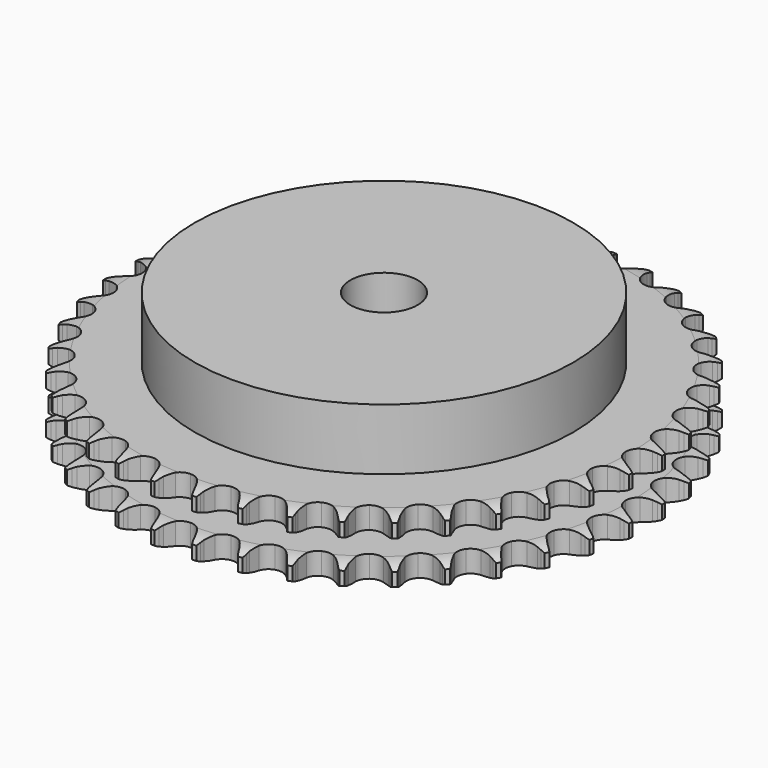
from build123d import *

# Parameters (mm, degrees)
PAD_DEPTH         = 15.4
SKETCH001_R       = 45
PAD001_DEPTH      = 30
SKETCH002_R       = 8
POCKET_DEPTH      = 0.001
POCKET_DEPTH_BACK = 30.001


with BuildPart() as part:
    # Sprocket → Pad (new body)
    with BuildSketch(Plane.XY):
        with BuildLine():
            ThreePointArc((-4.986853, 63.363969), (-4.438526, 62.600159), (-4.038812, 61.749103))
            Line((-4.038812, 61.749103), (-3.729238, 60.893914))
            ThreePointArc((-3.729238, 60.893914), (-3.239135, 59.795706), (-2.595634, 58.779751))
            ThreePointArc((-2.595634, 58.779751), (-1.453357, 57.817013), (0, 57.471444))
            ThreePointArc((0, 57.471444), (1.453357, 57.817013), (2.595634, 58.779751))
            ThreePointArc((2.595634, 58.779751), (3.239135, 59.795706), (3.729238, 60.893914))
            Line((3.729238, 60.893914), (4.038812, 61.749103))
            ThreePointArc((4.038812, 61.749103), (4.438526, 62.600159), (4.986853, 63.363969))
            ThreePointArc((4.986853, 63.363969), (5.408942, 62.523786), (5.670601, 61.620678))
            Line((5.670601, 61.620678), (5.842582, 60.72759))
            ThreePointArc((5.842582, 60.72759), (6.154853, 59.566235), (6.631502, 58.462122))
            ThreePointArc((6.631502, 58.462122), (7.60911, 57.332544), (8.990515, 56.763875))
            ThreePointArc((8.990515, 56.763875), (10.480037, 56.877834), (11.758856, 57.650028))
            Line((11.758856, 57.650028), (13.209231, 59.560827))
            ThreePointArc((13.209231, 59.560827), (13.418101, 59.964962), (13.648775, 60.35706))
            ThreePointArc((13.648775, 60.35706), (14.176703, 61.135109), (14.837765, 61.803738))
            ThreePointArc((14.837765, 61.803738), (15.123224, 60.907869), (15.240384, 59.974948))
            Line((15.240384, 59.974948), (15.270538, 59.065951))
            ThreePointArc((15.270538, 59.065951), (15.397289, 57.870044), (15.695348, 56.70496))
            ThreePointArc((15.695348, 56.70496), (16.484215, 55.436358), (17.759653, 54.658591))
            ThreePointArc((17.759653, 54.658591), (19.248664, 54.538135), (20.632536, 55.100771))
            Line((20.632536, 55.100771), (22.36397, 56.761156))
            ThreePointArc((22.36397, 56.761156), (22.633488, 57.12764), (22.922661, 57.478825))
            ThreePointArc((22.922661, 57.478825), (23.565802, 58.164709), (24.323322, 58.721694))
            ThreePointArc((24.323322, 58.721694), (24.465122, 57.792199), (24.434898, 56.852436))
            Line((24.434898, 56.852436), (24.322483, 55.949913))
            ThreePointArc((24.322483, 55.949913), (24.260592, 54.748901), (24.372722, 53.551535))
            ThreePointArc((24.372722, 53.551535), (24.953424, 52.175145), (26.09149, 51.207432))
            ThreePointArc((26.09149, 51.207432), (27.543325, 50.855525), (28.998175, 51.194749))
            Line((28.998175, 51.194749), (30.968033, 52.563836))
            ThreePointArc((30.968033, 52.563836), (31.291565, 52.883647), (31.632114, 53.185271))
            ThreePointArc((31.632114, 53.185271), (32.374633, 53.762101), (33.209958, 54.193726))
            ThreePointArc((33.209958, 54.193726), (33.204607, 53.253493), (33.027745, 52.330028))
            Line((33.027745, 52.330028), (32.775528, 51.456202))
            ThreePointArc((32.775528, 51.456202), (32.526519, 50.279659), (32.449959, 49.079493))
            ThreePointArc((32.449959, 49.079493), (32.808197, 47.629207), (33.780867, 46.495375))
            ThreePointArc((33.780867, 46.495375), (35.159777, 45.920684), (36.649783, 46.028142))
            Line((36.649783, 46.028142), (38.809561, 47.07222))
            ThreePointArc((38.809561, 47.07222), (39.179138, 47.337482), (39.56268, 47.58212))
            ThreePointArc((39.56268, 47.58212), (40.386293, 48.035692), (41.278855, 48.33133))
            ThreePointArc((41.278855, 48.33133), (41.126485, 47.403509), (40.807338, 46.519081))
            Line((40.807338, 46.519081), (40.42153, 45.695469))
            ThreePointArc((40.42153, 45.695469), (39.991535, 44.572364), (39.728171, 43.398951))
            ThreePointArc((39.728171, 43.398951), (39.855123, 41.91048), (40.638448, 40.638448))
            ThreePointArc((40.638448, 40.638448), (41.91048, 39.855123), (43.398951, 39.728171))
            Line((43.398951, 39.728171), (45.695469, 40.42153))
            ThreePointArc((45.695469, 40.42153), (46.101992, 40.625712), (46.519081, 40.807338))
            ThreePointArc((46.519081, 40.807338), (47.403509, 41.126485), (48.33133, 41.278855))
            ThreePointArc((48.33133, 41.278855), (48.035692, 40.386293), (47.58212, 39.56268))
            Line((47.58212, 39.56268), (47.07222, 38.809561))
            ThreePointArc((47.07222, 38.809561), (46.471827, 37.76755), (46.028142, 36.649783))
            ThreePointArc((46.028142, 36.649783), (45.920684, 35.159777), (46.495375, 33.780867))
            ThreePointArc((46.495375, 33.780867), (47.629207, 32.808197), (49.079493, 32.449959))
            Line((49.079493, 32.449959), (51.456202, 32.775528))
            ThreePointArc((51.456202, 32.775528), (51.889661, 32.913601), (52.330028, 33.027745))
            ThreePointArc((52.330028, 33.027745), (53.253493, 33.204607), (54.193726, 33.209958))
            ThreePointArc((54.193726, 33.209958), (53.762101, 32.374633), (53.185271, 31.632114))
            Line((53.185271, 31.632114), (52.563836, 30.968033))
            ThreePointArc((52.563836, 30.968033), (51.807828, 30.032774), (51.194749, 28.998175))
            ThreePointArc((51.194749, 28.998175), (50.855525, 27.543325), (51.207432, 26.09149))
            ThreePointArc((51.207432, 26.09149), (52.175145, 24.953424), (53.551535, 24.372722))
            Line((53.551535, 24.372722), (55.949913, 24.322483))
            ThreePointArc((55.949913, 24.322483), (56.399635, 24.391049), (56.852436, 24.434898))
            ThreePointArc((56.852436, 24.434898), (57.792199, 24.465122), (58.721694, 24.323322))
            ThreePointArc((58.721694, 24.323322), (58.164709, 23.565802), (57.478825, 22.922661))
            Line((57.478825, 22.922661), (56.761156, 22.36397))
            ThreePointArc((56.761156, 22.36397), (55.868148, 21.55849), (55.100771, 20.632536))
            ThreePointArc((55.100771, 20.632536), (54.538135, 19.248664), (54.658591, 17.759653))
            ThreePointArc((54.658591, 17.759653), (55.436358, 16.484215), (56.70496, 15.695348))
            Line((56.70496, 15.695348), (59.065951, 15.270538))
            ThreePointArc((59.065951, 15.270538), (59.520863, 15.267908), (59.974948, 15.240384))
            ThreePointArc((59.974948, 15.240384), (60.907869, 15.123224), (61.803738, 14.837765))
            ThreePointArc((61.803738, 14.837765), (61.135109, 14.176703), (60.35706, 13.648775))
            Line((60.35706, 13.648775), (59.560827, 13.209231))
            ThreePointArc((59.560827, 13.209231), (58.55281, 12.553366), (57.650028, 11.758856))
            ThreePointArc((57.650028, 11.758856), (56.877834, 10.480037), (56.763875, 8.990515))
            ThreePointArc((56.763875, 8.990515), (57.332544, 7.60911), (58.462122, 6.631502))
            Line((58.462122, 6.631502), (60.72759, 5.842582))
            ThreePointArc((60.72759, 5.842582), (61.176489, 5.76882), (61.620678, 5.670601))
            ThreePointArc((61.620678, 5.670601), (62.523786, 5.408942), (63.363969, 4.986853))
            ThreePointArc((63.363969, 4.986853), (62.600159, 4.438526), (61.749103, 4.038812))
            Line((61.749103, 4.038812), (60.893914, 3.729238))
            ThreePointArc((60.893914, 3.729238), (59.795706, 3.239135), (58.779751, 2.595634))
            ThreePointArc((58.779751, 2.595634), (57.817013, 1.453357), (57.471444, 0))
            ThreePointArc((57.471444, 0), (57.817013, -1.453357), (58.779751, -2.595634))
            Line((58.779751, -2.595634), (60.893914, -3.729238))
            ThreePointArc((60.893914, -3.729238), (61.325747, -3.872315), (61.749103, -4.038812))
            ThreePointArc((61.749103, -4.038812), (62.600159, -4.438526), (63.363969, -4.986853))
            ThreePointArc((63.363969, -4.986853), (62.523786, -5.408942), (61.620678, -5.670601))
            Line((61.620678, -5.670601), (60.72759, -5.842582))
            ThreePointArc((60.72759, -5.842582), (59.566235, -6.154853), (58.462122, -6.631502))
            ThreePointArc((58.462122, -6.631502), (57.332544, -7.60911), (56.763875, -8.990515))
            ThreePointArc((56.763875, -8.990515), (56.877834, -10.480037), (57.650028, -11.758856))
            Line((57.650028, -11.758856), (59.560827, -13.209231))
            ThreePointArc((59.560827, -13.209231), (59.964962, -13.418101), (60.35706, -13.648775))
            ThreePointArc((60.35706, -13.648775), (61.135109, -14.176703), (61.803738, -14.837765))
            ThreePointArc((61.803738, -14.837765), (60.907869, -15.123224), (59.974948, -15.240384))
            Line((59.974948, -15.240384), (59.065951, -15.270538))
            ThreePointArc((59.065951, -15.270538), (57.870044, -15.397289), (56.70496, -15.695348))
            ThreePointArc((56.70496, -15.695348), (55.436358, -16.484215), (54.658591, -17.759653))
            ThreePointArc((54.658591, -17.759653), (54.538135, -19.248664), (55.100771, -20.632536))
            Line((55.100771, -20.632536), (56.761156, -22.36397))
            ThreePointArc((56.761156, -22.36397), (57.12764, -22.633488), (57.478825, -22.922661))
            ThreePointArc((57.478825, -22.922661), (58.164709, -23.565802), (58.721694, -24.323322))
            ThreePointArc((58.721694, -24.323322), (57.792199, -24.465122), (56.852436, -24.434898))
            Line((56.852436, -24.434898), (55.949913, -24.322483))
            ThreePointArc((55.949913, -24.322483), (54.748901, -24.260592), (53.551535, -24.372722))
            ThreePointArc((53.551535, -24.372722), (52.175145, -24.953424), (51.207432, -26.09149))
            ThreePointArc((51.207432, -26.09149), (50.855525, -27.543325), (51.194749, -28.998175))
            Line((51.194749, -28.998175), (52.563836, -30.968033))
            ThreePointArc((52.563836, -30.968033), (52.883647, -31.291565), (53.185271, -31.632114))
            ThreePointArc((53.185271, -31.632114), (53.762101, -32.374633), (54.193726, -33.209958))
            ThreePointArc((54.193726, -33.209958), (53.253493, -33.204607), (52.330028, -33.027745))
            Line((52.330028, -33.027745), (51.456202, -32.775528))
            ThreePointArc((51.456202, -32.775528), (50.279659, -32.526519), (49.079493, -32.449959))
            ThreePointArc((49.079493, -32.449959), (47.629207, -32.808197), (46.495375, -33.780867))
            ThreePointArc((46.495375, -33.780867), (45.920684, -35.159777), (46.028142, -36.649783))
            Line((46.028142, -36.649783), (47.07222, -38.809561))
            ThreePointArc((47.07222, -38.809561), (47.337482, -39.179138), (47.58212, -39.56268))
            ThreePointArc((47.58212, -39.56268), (48.035692, -40.386293), (48.33133, -41.278855))
            ThreePointArc((48.33133, -41.278855), (47.403509, -41.126485), (46.519081, -40.807338))
            Line((46.519081, -40.807338), (45.695469, -40.42153))
            ThreePointArc((45.695469, -40.42153), (44.572364, -39.991535), (43.398951, -39.728171))
            ThreePointArc((43.398951, -39.728171), (41.91048, -39.855123), (40.638448, -40.638448))
            ThreePointArc((40.638448, -40.638448), (39.855123, -41.91048), (39.728171, -43.398951))
            Line((39.728171, -43.398951), (40.42153, -45.695469))
            ThreePointArc((40.42153, -45.695469), (40.625712, -46.101992), (40.807338, -46.519081))
            ThreePointArc((40.807338, -46.519081), (41.126485, -47.403509), (41.278855, -48.33133))
            ThreePointArc((41.278855, -48.33133), (40.386293, -48.035692), (39.56268, -47.58212))
            Line((39.56268, -47.58212), (38.809561, -47.07222))
            ThreePointArc((38.809561, -47.07222), (37.76755, -46.471827), (36.649783, -46.028142))
            ThreePointArc((36.649783, -46.028142), (35.159777, -45.920684), (33.780867, -46.495375))
            ThreePointArc((33.780867, -46.495375), (32.808197, -47.629207), (32.449959, -49.079493))
            Line((32.449959, -49.079493), (32.775528, -51.456202))
            ThreePointArc((32.775528, -51.456202), (32.913601, -51.889661), (33.027745, -52.330028))
            ThreePointArc((33.027745, -52.330028), (33.204607, -53.253493), (33.209958, -54.193726))
            ThreePointArc((33.209958, -54.193726), (32.374633, -53.762101), (31.632114, -53.185271))
            Line((31.632114, -53.185271), (30.968033, -52.563836))
            ThreePointArc((30.968033, -52.563836), (30.032774, -51.807828), (28.998175, -51.194749))
            ThreePointArc((28.998175, -51.194749), (27.543325, -50.855525), (26.09149, -51.207432))
            ThreePointArc((26.09149, -51.207432), (24.953424, -52.175145), (24.372722, -53.551535))
            Line((24.372722, -53.551535), (24.322483, -55.949913))
            ThreePointArc((24.322483, -55.949913), (24.391049, -56.399635), (24.434898, -56.852436))
            ThreePointArc((24.434898, -56.852436), (24.465122, -57.792199), (24.323322, -58.721694))
            ThreePointArc((24.323322, -58.721694), (23.565802, -58.164709), (22.922661, -57.478825))
            Line((22.922661, -57.478825), (22.36397, -56.761156))
            ThreePointArc((22.36397, -56.761156), (21.55849, -55.868148), (20.632536, -55.100771))
            ThreePointArc((20.632536, -55.100771), (19.248664, -54.538135), (17.759653, -54.658591))
            ThreePointArc((17.759653, -54.658591), (16.484215, -55.436358), (15.695348, -56.70496))
            Line((15.695348, -56.70496), (15.270538, -59.065951))
            ThreePointArc((15.270538, -59.065951), (15.267908, -59.520863), (15.240384, -59.974948))
            ThreePointArc((15.240384, -59.974948), (15.123224, -60.907869), (14.837765, -61.803738))
            ThreePointArc((14.837765, -61.803738), (14.176703, -61.135109), (13.648775, -60.35706))
            Line((13.648775, -60.35706), (13.209231, -59.560827))
            ThreePointArc((13.209231, -59.560827), (12.553366, -58.55281), (11.758856, -57.650028))
            ThreePointArc((11.758856, -57.650028), (10.480037, -56.877834), (8.990515, -56.763875))
            ThreePointArc((8.990515, -56.763875), (7.60911, -57.332544), (6.631502, -58.462122))
            Line((6.631502, -58.462122), (5.842582, -60.72759))
            ThreePointArc((5.842582, -60.72759), (5.76882, -61.176489), (5.670601, -61.620678))
            ThreePointArc((5.670601, -61.620678), (5.408942, -62.523786), (4.986853, -63.363969))
            ThreePointArc((4.986853, -63.363969), (4.438526, -62.600159), (4.038812, -61.749103))
            Line((4.038812, -61.749103), (3.729238, -60.893914))
            ThreePointArc((3.729238, -60.893914), (3.239135, -59.795706), (2.595634, -58.779751))
            ThreePointArc((2.595634, -58.779751), (1.453357, -57.817013), (0, -57.471444))
            ThreePointArc((0, -57.471444), (-1.453357, -57.817013), (-2.595634, -58.779751))
            Line((-2.595634, -58.779751), (-3.729238, -60.893914))
            ThreePointArc((-3.729238, -60.893914), (-3.872315, -61.325747), (-4.038812, -61.749103))
            ThreePointArc((-4.038812, -61.749103), (-4.438526, -62.600159), (-4.986853, -63.363969))
            ThreePointArc((-4.986853, -63.363969), (-5.408942, -62.523786), (-5.670601, -61.620678))
            Line((-5.670601, -61.620678), (-5.842582, -60.72759))
            ThreePointArc((-5.842582, -60.72759), (-6.154853, -59.566235), (-6.631502, -58.462122))
            ThreePointArc((-6.631502, -58.462122), (-7.60911, -57.332544), (-8.990515, -56.763875))
            ThreePointArc((-8.990515, -56.763875), (-10.480037, -56.877834), (-11.758856, -57.650028))
            Line((-11.758856, -57.650028), (-13.209231, -59.560827))
            ThreePointArc((-13.209231, -59.560827), (-13.418101, -59.964962), (-13.648775, -60.35706))
            ThreePointArc((-13.648775, -60.35706), (-14.176703, -61.135109), (-14.837765, -61.803738))
            ThreePointArc((-14.837765, -61.803738), (-15.123224, -60.907869), (-15.240384, -59.974948))
            Line((-15.240384, -59.974948), (-15.270538, -59.065951))
            ThreePointArc((-15.270538, -59.065951), (-15.397289, -57.870044), (-15.695348, -56.70496))
            ThreePointArc((-15.695348, -56.70496), (-16.484215, -55.436358), (-17.759653, -54.658591))
            ThreePointArc((-17.759653, -54.658591), (-19.248664, -54.538135), (-20.632536, -55.100771))
            Line((-20.632536, -55.100771), (-22.36397, -56.761156))
            ThreePointArc((-22.36397, -56.761156), (-22.633488, -57.12764), (-22.922661, -57.478825))
            ThreePointArc((-22.922661, -57.478825), (-23.565802, -58.164709), (-24.323322, -58.721694))
            ThreePointArc((-24.323322, -58.721694), (-24.465122, -57.792199), (-24.434898, -56.852436))
            Line((-24.434898, -56.852436), (-24.322483, -55.949913))
            ThreePointArc((-24.322483, -55.949913), (-24.260592, -54.748901), (-24.372722, -53.551535))
            ThreePointArc((-24.372722, -53.551535), (-24.953424, -52.175145), (-26.09149, -51.207432))
            ThreePointArc((-26.09149, -51.207432), (-27.543325, -50.855525), (-28.998175, -51.194749))
            Line((-28.998175, -51.194749), (-30.968033, -52.563836))
            ThreePointArc((-30.968033, -52.563836), (-31.291565, -52.883647), (-31.632114, -53.185271))
            ThreePointArc((-31.632114, -53.185271), (-32.374633, -53.762101), (-33.209958, -54.193726))
            ThreePointArc((-33.209958, -54.193726), (-33.204607, -53.253493), (-33.027745, -52.330028))
            Line((-33.027745, -52.330028), (-32.775528, -51.456202))
            ThreePointArc((-32.775528, -51.456202), (-32.526519, -50.279659), (-32.449959, -49.079493))
            ThreePointArc((-32.449959, -49.079493), (-32.808197, -47.629207), (-33.780867, -46.495375))
            ThreePointArc((-33.780867, -46.495375), (-35.159777, -45.920684), (-36.649783, -46.028142))
            Line((-36.649783, -46.028142), (-38.809561, -47.07222))
            ThreePointArc((-38.809561, -47.07222), (-39.179138, -47.337482), (-39.56268, -47.58212))
            ThreePointArc((-39.56268, -47.58212), (-40.386293, -48.035692), (-41.278855, -48.33133))
            ThreePointArc((-41.278855, -48.33133), (-41.126485, -47.403509), (-40.807338, -46.519081))
            Line((-40.807338, -46.519081), (-40.42153, -45.695469))
            ThreePointArc((-40.42153, -45.695469), (-39.991535, -44.572364), (-39.728171, -43.398951))
            ThreePointArc((-39.728171, -43.398951), (-39.855123, -41.91048), (-40.638448, -40.638448))
            ThreePointArc((-40.638448, -40.638448), (-41.91048, -39.855123), (-43.398951, -39.728171))
            Line((-43.398951, -39.728171), (-45.695469, -40.42153))
            ThreePointArc((-45.695469, -40.42153), (-46.101992, -40.625712), (-46.519081, -40.807338))
            ThreePointArc((-46.519081, -40.807338), (-47.403509, -41.126485), (-48.33133, -41.278855))
            ThreePointArc((-48.33133, -41.278855), (-48.035692, -40.386293), (-47.58212, -39.56268))
            Line((-47.58212, -39.56268), (-47.07222, -38.809561))
            ThreePointArc((-47.07222, -38.809561), (-46.471827, -37.76755), (-46.028142, -36.649783))
            ThreePointArc((-46.028142, -36.649783), (-45.920684, -35.159777), (-46.495375, -33.780867))
            ThreePointArc((-46.495375, -33.780867), (-47.629207, -32.808197), (-49.079493, -32.449959))
            Line((-49.079493, -32.449959), (-51.456202, -32.775528))
            ThreePointArc((-51.456202, -32.775528), (-51.889661, -32.913601), (-52.330028, -33.027745))
            ThreePointArc((-52.330028, -33.027745), (-53.253493, -33.204607), (-54.193726, -33.209958))
            ThreePointArc((-54.193726, -33.209958), (-53.762101, -32.374633), (-53.185271, -31.632114))
            Line((-53.185271, -31.632114), (-52.563836, -30.968033))
            ThreePointArc((-52.563836, -30.968033), (-51.807828, -30.032774), (-51.194749, -28.998175))
            ThreePointArc((-51.194749, -28.998175), (-50.855525, -27.543325), (-51.207432, -26.09149))
            ThreePointArc((-51.207432, -26.09149), (-52.175145, -24.953424), (-53.551535, -24.372722))
            Line((-53.551535, -24.372722), (-55.949913, -24.322483))
            ThreePointArc((-55.949913, -24.322483), (-56.399635, -24.391049), (-56.852436, -24.434898))
            ThreePointArc((-56.852436, -24.434898), (-57.792199, -24.465122), (-58.721694, -24.323322))
            ThreePointArc((-58.721694, -24.323322), (-58.164709, -23.565802), (-57.478825, -22.922661))
            Line((-57.478825, -22.922661), (-56.761156, -22.36397))
            ThreePointArc((-56.761156, -22.36397), (-55.868148, -21.55849), (-55.100771, -20.632536))
            ThreePointArc((-55.100771, -20.632536), (-54.538135, -19.248664), (-54.658591, -17.759653))
            ThreePointArc((-54.658591, -17.759653), (-55.436358, -16.484215), (-56.70496, -15.695348))
            Line((-56.70496, -15.695348), (-59.065951, -15.270538))
            ThreePointArc((-59.065951, -15.270538), (-59.520863, -15.267908), (-59.974948, -15.240384))
            ThreePointArc((-59.974948, -15.240384), (-60.907869, -15.123224), (-61.803738, -14.837765))
            ThreePointArc((-61.803738, -14.837765), (-61.135109, -14.176703), (-60.35706, -13.648775))
            Line((-60.35706, -13.648775), (-59.560827, -13.209231))
            ThreePointArc((-59.560827, -13.209231), (-58.55281, -12.553366), (-57.650028, -11.758856))
            ThreePointArc((-57.650028, -11.758856), (-56.877834, -10.480037), (-56.763875, -8.990515))
            ThreePointArc((-56.763875, -8.990515), (-57.332544, -7.60911), (-58.462122, -6.631502))
            Line((-58.462122, -6.631502), (-60.72759, -5.842582))
            ThreePointArc((-60.72759, -5.842582), (-61.176489, -5.76882), (-61.620678, -5.670601))
            ThreePointArc((-61.620678, -5.670601), (-62.523786, -5.408942), (-63.363969, -4.986853))
            ThreePointArc((-63.363969, -4.986853), (-62.600159, -4.438526), (-61.749103, -4.038812))
            Line((-61.749103, -4.038812), (-60.893914, -3.729238))
            ThreePointArc((-60.893914, -3.729238), (-59.795706, -3.239135), (-58.779751, -2.595634))
            ThreePointArc((-58.779751, -2.595634), (-57.817013, -1.453357), (-57.471444, 0))
            ThreePointArc((-57.471444, 0), (-57.817013, 1.453357), (-58.779751, 2.595634))
            Line((-58.779751, 2.595634), (-60.893914, 3.729238))
            ThreePointArc((-60.893914, 3.729238), (-61.325747, 3.872315), (-61.749103, 4.038812))
            ThreePointArc((-61.749103, 4.038812), (-62.600159, 4.438526), (-63.363969, 4.986853))
            ThreePointArc((-63.363969, 4.986853), (-62.523786, 5.408942), (-61.620678, 5.670601))
            Line((-61.620678, 5.670601), (-60.72759, 5.842582))
            ThreePointArc((-60.72759, 5.842582), (-59.566235, 6.154853), (-58.462122, 6.631502))
            ThreePointArc((-58.462122, 6.631502), (-57.332544, 7.60911), (-56.763875, 8.990515))
            ThreePointArc((-56.763875, 8.990515), (-56.877834, 10.480037), (-57.650028, 11.758856))
            Line((-57.650028, 11.758856), (-59.560827, 13.209231))
            ThreePointArc((-59.560827, 13.209231), (-59.964962, 13.418101), (-60.35706, 13.648775))
            ThreePointArc((-60.35706, 13.648775), (-61.135109, 14.176703), (-61.803738, 14.837765))
            ThreePointArc((-61.803738, 14.837765), (-60.907869, 15.123224), (-59.974948, 15.240384))
            Line((-59.974948, 15.240384), (-59.065951, 15.270538))
            ThreePointArc((-59.065951, 15.270538), (-57.870044, 15.397289), (-56.70496, 15.695348))
            ThreePointArc((-56.70496, 15.695348), (-55.436358, 16.484215), (-54.658591, 17.759653))
            ThreePointArc((-54.658591, 17.759653), (-54.538135, 19.248664), (-55.100771, 20.632536))
            Line((-55.100771, 20.632536), (-56.761156, 22.36397))
            ThreePointArc((-56.761156, 22.36397), (-57.12764, 22.633488), (-57.478825, 22.922661))
            ThreePointArc((-57.478825, 22.922661), (-58.164709, 23.565802), (-58.721694, 24.323322))
            ThreePointArc((-58.721694, 24.323322), (-57.792199, 24.465122), (-56.852436, 24.434898))
            Line((-56.852436, 24.434898), (-55.949913, 24.322483))
            ThreePointArc((-55.949913, 24.322483), (-54.748901, 24.260592), (-53.551535, 24.372722))
            ThreePointArc((-53.551535, 24.372722), (-52.175145, 24.953424), (-51.207432, 26.09149))
            ThreePointArc((-51.207432, 26.09149), (-50.855525, 27.543325), (-51.194749, 28.998175))
            Line((-51.194749, 28.998175), (-52.563836, 30.968033))
            ThreePointArc((-52.563836, 30.968033), (-52.883647, 31.291565), (-53.185271, 31.632114))
            ThreePointArc((-53.185271, 31.632114), (-53.762101, 32.374633), (-54.193726, 33.209958))
            ThreePointArc((-54.193726, 33.209958), (-53.253493, 33.204607), (-52.330028, 33.027745))
            Line((-52.330028, 33.027745), (-51.456202, 32.775528))
            ThreePointArc((-51.456202, 32.775528), (-50.279659, 32.526519), (-49.079493, 32.449959))
            ThreePointArc((-49.079493, 32.449959), (-47.629207, 32.808197), (-46.495375, 33.780867))
            ThreePointArc((-46.495375, 33.780867), (-45.920684, 35.159777), (-46.028142, 36.649783))
            Line((-46.028142, 36.649783), (-47.07222, 38.809561))
            ThreePointArc((-47.07222, 38.809561), (-47.337482, 39.179138), (-47.58212, 39.56268))
            ThreePointArc((-47.58212, 39.56268), (-48.035692, 40.386293), (-48.33133, 41.278855))
            ThreePointArc((-48.33133, 41.278855), (-47.403509, 41.126485), (-46.519081, 40.807338))
            Line((-46.519081, 40.807338), (-45.695469, 40.42153))
            ThreePointArc((-45.695469, 40.42153), (-44.572364, 39.991535), (-43.398951, 39.728171))
            ThreePointArc((-43.398951, 39.728171), (-41.91048, 39.855123), (-40.638448, 40.638448))
            ThreePointArc((-40.638448, 40.638448), (-39.855123, 41.91048), (-39.728171, 43.398951))
            Line((-39.728171, 43.398951), (-40.42153, 45.695469))
            ThreePointArc((-40.42153, 45.695469), (-40.625712, 46.101992), (-40.807338, 46.519081))
            ThreePointArc((-40.807338, 46.519081), (-41.126485, 47.403509), (-41.278855, 48.33133))
            ThreePointArc((-41.278855, 48.33133), (-40.386293, 48.035692), (-39.56268, 47.58212))
            Line((-39.56268, 47.58212), (-38.809561, 47.07222))
            ThreePointArc((-38.809561, 47.07222), (-37.76755, 46.471827), (-36.649783, 46.028142))
            ThreePointArc((-36.649783, 46.028142), (-35.159777, 45.920684), (-33.780867, 46.495375))
            ThreePointArc((-33.780867, 46.495375), (-32.808197, 47.629207), (-32.449959, 49.079493))
            Line((-32.449959, 49.079493), (-32.775528, 51.456202))
            ThreePointArc((-32.775528, 51.456202), (-32.913601, 51.889661), (-33.027745, 52.330028))
            ThreePointArc((-33.027745, 52.330028), (-33.204607, 53.253493), (-33.209958, 54.193726))
            ThreePointArc((-33.209958, 54.193726), (-32.374633, 53.762101), (-31.632114, 53.185271))
            Line((-31.632114, 53.185271), (-30.968033, 52.563836))
            ThreePointArc((-30.968033, 52.563836), (-30.032774, 51.807828), (-28.998175, 51.194749))
            ThreePointArc((-28.998175, 51.194749), (-27.543325, 50.855525), (-26.09149, 51.207432))
            ThreePointArc((-26.09149, 51.207432), (-24.953424, 52.175145), (-24.372722, 53.551535))
            Line((-24.372722, 53.551535), (-24.322483, 55.949913))
            ThreePointArc((-24.322483, 55.949913), (-24.391049, 56.399635), (-24.434898, 56.852436))
            ThreePointArc((-24.434898, 56.852436), (-24.465122, 57.792199), (-24.323322, 58.721694))
            ThreePointArc((-24.323322, 58.721694), (-23.565802, 58.164709), (-22.922661, 57.478825))
            Line((-22.922661, 57.478825), (-22.36397, 56.761156))
            ThreePointArc((-22.36397, 56.761156), (-21.55849, 55.868148), (-20.632536, 55.100771))
            ThreePointArc((-20.632536, 55.100771), (-19.248664, 54.538135), (-17.759653, 54.658591))
            ThreePointArc((-17.759653, 54.658591), (-16.484215, 55.436358), (-15.695348, 56.70496))
            Line((-15.695348, 56.70496), (-15.270538, 59.065951))
            ThreePointArc((-15.270538, 59.065951), (-15.267908, 59.520863), (-15.240384, 59.974948))
            ThreePointArc((-15.240384, 59.974948), (-15.123224, 60.907869), (-14.837765, 61.803738))
            ThreePointArc((-14.837765, 61.803738), (-14.176703, 61.135109), (-13.648775, 60.35706))
            Line((-13.648775, 60.35706), (-13.209231, 59.560827))
            ThreePointArc((-13.209231, 59.560827), (-12.553366, 58.55281), (-11.758856, 57.650028))
            ThreePointArc((-11.758856, 57.650028), (-10.480037, 56.877834), (-8.990515, 56.763875))
            ThreePointArc((-8.990515, 56.763875), (-7.60911, 57.332544), (-6.631502, 58.462122))
            Line((-6.631502, 58.462122), (-5.842582, 60.72759))
            ThreePointArc((-5.842582, 60.72759), (-5.76882, 61.176489), (-5.670601, 61.620678))
            ThreePointArc((-5.670601, 61.620678), (-5.408942, 62.523786), (-4.986853, 63.363969))
        make_face()
    extrude(amount=PAD_DEPTH)

    # Sketch → Groove (revolve, cut)
    with BuildSketch(Plane.XZ):
        with BuildLine():
            ThreePointArc((58.391101, 0), (60.627169, 0.253206), (62.75, 1))
            Line((62.75, 1), (62.75, 4.2))
            ThreePointArc((62.75, 4.2), (60.627169, 4.946794), (58.391101, 5.2))
            Line((45, 5.2), (58.391101, 5.2))
            Line((45, 10.2), (45, 5.2))
            Line((58.391101, 10.2), (45, 10.2))
            ThreePointArc((58.391101, 10.2), (60.627169, 10.453206), (62.75, 11.2))
            Line((62.75, 11.2), (62.75, 14.4))
            ThreePointArc((62.75, 14.4), (60.627169, 15.146794), (58.391101, 15.4))
            Line((58.391101, 15.4), (68.391101, 15.4))
            Line((68.391101, 15.4), (68.391101, 0))
            Line((58.391101, 0), (68.391101, 0))
        make_face()
    revolve(axis=Axis((0, 0, 0), (0, 0, 1)), mode=Mode.SUBTRACT)

    # Sketch001 → Pad001 (join)
    with BuildSketch(Plane.XY):
        Circle(SKETCH001_R)
    extrude(amount=PAD001_DEPTH)

    # Sketch002 → Pocket (cut, two sides)
    with BuildSketch(Plane.XY) as pocket_sk:
        Circle(SKETCH002_R)
    extrude(amount=-POCKET_DEPTH, mode=Mode.SUBTRACT)
    extrude(pocket_sk.sketch, amount=POCKET_DEPTH_BACK, mode=Mode.SUBTRACT)


solid = part.part
